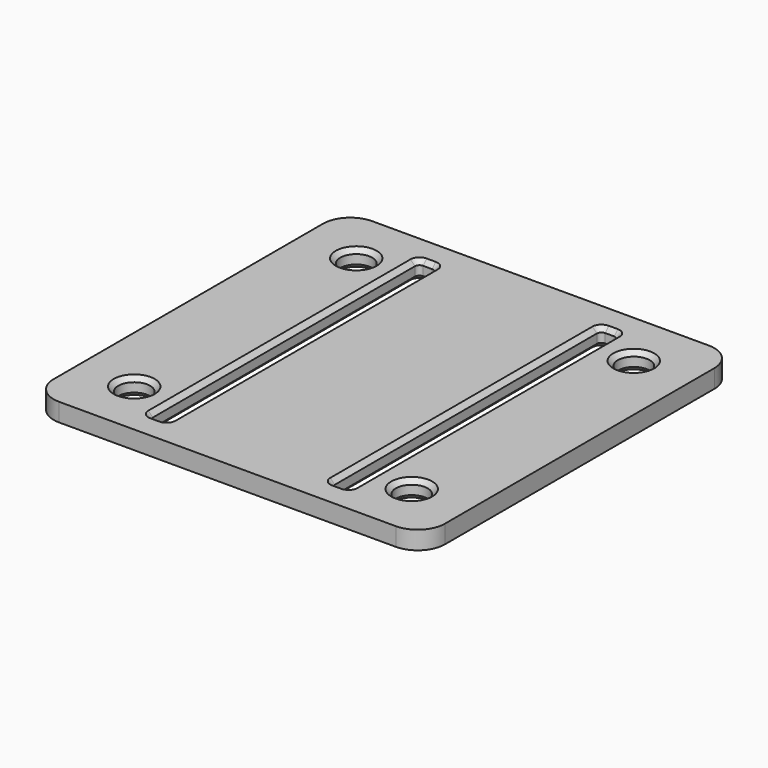
from build123d import *

# Parameters (mm, degrees)
BOX001_W         = 2
BOX001_H         = 37
BOX001_DEPTH     = 2
BOX_W            = 2
BOX_H            = 37
BOX_DEPTH        = 2
CIRCLE_R         = 1.75
EXTRUDE_DEPTH    = 2
CIRCLE001_R      = 1.75
EXTRUDE001_DEPTH = 2
CIRCLE002_R      = 1.75
EXTRUDE002_DEPTH = 2
CIRCLE003_R      = 1.75
EXTRUDE003_DEPTH = 2
RECTANGLE_W      = 43
RECTANGLE_H      = 43
EXTRUDE004_DEPTH = 2
FILLET_R         = 3
FILLET001_R      = 0.5
CHAMFER_SIZE     = 0.5
CHAMFER001_SIZE  = 0.5


with BuildPart() as cube001:
    # Box001 → Box001 (new body)
    with BuildSketch(Plane(origin=(30.5, 3, 0), x_dir=(1, 0, 0), z_dir=(0, 0, 1))):
        with Locations((1, 18.5)):
            Rectangle(BOX001_W, BOX001_H)
    extrude(amount=BOX001_DEPTH)


with BuildPart() as cube:
    # Box → Box (new body)
    with BuildSketch(Plane(origin=(10.5, 3, 0), x_dir=(1, 0, 0), z_dir=(0, 0, 1))):
        with Locations((1, 18.5)):
            Rectangle(BOX_W, BOX_H)
    extrude(amount=BOX_DEPTH)


with BuildPart() as extrude_body:
    # Circle → Extrude (new body)
    with BuildSketch(Plane(origin=(36.75, 6.25, 0), x_dir=(1, 0, 0), z_dir=(0, 0, 1))):
        Circle(CIRCLE_R)
    extrude(amount=EXTRUDE_DEPTH)


with BuildPart() as extrude001:
    # Circle001 → Extrude001 (new body)
    with BuildSketch(Plane(origin=(36.75, 36.75, 0), x_dir=(1, 0, 0), z_dir=(0, 0, 1))):
        Circle(CIRCLE001_R)
    extrude(amount=EXTRUDE001_DEPTH)


with BuildPart() as extrude002:
    # Circle002 → Extrude002 (new body)
    with BuildSketch(Plane(origin=(6.25, 6.25, 0), x_dir=(1, 0, 0), z_dir=(0, 0, 1))):
        Circle(CIRCLE002_R)
    extrude(amount=EXTRUDE002_DEPTH)


with BuildPart() as extrude003:
    # Circle003 → Extrude003 (new body)
    with BuildSketch(Plane(origin=(6.25, 36.75, 0), x_dir=(1, 0, 0), z_dir=(0, 0, 1))):
        Circle(CIRCLE003_R)
    extrude(amount=EXTRUDE003_DEPTH)


with BuildPart() as chamfer001:
    # Rectangle → Extrude004 (new body)
    with BuildSketch(Plane.XY):
        with Locations((21.5, 21.5)):
            Rectangle(RECTANGLE_W, RECTANGLE_H)
    extrude(amount=EXTRUDE004_DEPTH)

    # Cut: cut Extrude003
    add(extrude003.part, mode=Mode.SUBTRACT)

    # Cut001: cut Extrude002
    add(extrude002.part, mode=Mode.SUBTRACT)

    # Cut002: cut Extrude001
    add(extrude001.part, mode=Mode.SUBTRACT)

    # Cut003: cut Extrude body
    add(extrude_body.part, mode=Mode.SUBTRACT)

    # Cut004: cut Cube
    add(cube.part, mode=Mode.SUBTRACT)

    # Cut005: cut Cube001
    add(cube001.part, mode=Mode.SUBTRACT)

    # Fillet
    fillet_edges = [chamfer001.edges().sort_by_distance(p)[0] for p in [
        (0, 0, 1),
        (43, 0, 1),
        (0, 43, 1),
        (43, 43, 1),
    ]]
    fillet(fillet_edges, radius=FILLET_R)

    # Fillet001
    fillet001_edges = [chamfer001.edges().sort_by_distance(p)[0] for p in [
        (10.5, 3, 1),
        (10.5, 40, 1),
        (12.5, 40, 1),
        (12.5, 3, 1),
        (30.5, 3, 1),
        (30.5, 40, 1),
        (32.5, 3, 1),
        (32.5, 40, 1),
    ]]
    fillet(fillet001_edges, radius=FILLET001_R)

    # Chamfer
    chamfer_edges = [chamfer001.edges().sort_by_distance(p)[0] for p in [
        (10.5, 21.5, 2),
        (10.646447, 3.146447, 2),
        (10.646447, 39.853553, 2),
        (11.5, 3, 2),
        (11.5, 40, 2),
        (12.353553, 3.146447, 2),
        (12.353553, 39.853553, 2),
        (12.5, 21.5, 2),
        (35, 36.75, 2),
        (35, 6.25, 2),
        (4.5, 6.25, 2),
        (4.5, 36.75, 2),
        (30.5, 21.5, 2),
        (30.646447, 3.146447, 2),
        (30.646447, 39.853553, 2),
        (31.5, 3, 2),
        (31.5, 40, 2),
        (32.353553, 3.146447, 2),
        (32.353553, 39.853553, 2),
        (32.5, 21.5, 2),
    ]]
    chamfer(chamfer_edges, length=CHAMFER_SIZE)

    # Chamfer001
    chamfer001_edges = [chamfer001.edges().sort_by_distance(p)[0] for p in [
        (10.5, 21.5, 0),
        (10.646447, 3.146447, 0),
        (10.646447, 39.853553, 0),
        (11.5, 3, 0),
        (11.5, 40, 0),
        (12.353553, 3.146447, 0),
        (12.353553, 39.853553, 0),
        (12.5, 21.5, 0),
        (35, 36.75, 0),
        (35, 6.25, 0),
        (4.5, 6.25, 0),
        (4.5, 36.75, 0),
        (30.5, 21.5, 0),
        (30.646447, 3.146447, 0),
        (30.646447, 39.853553, 0),
        (31.5, 3, 0),
        (31.5, 40, 0),
        (32.353553, 3.146447, 0),
        (32.353553, 39.853553, 0),
        (32.5, 21.5, 0),
    ]]
    chamfer(chamfer001_edges, length=CHAMFER001_SIZE)


solid = chamfer001.part
